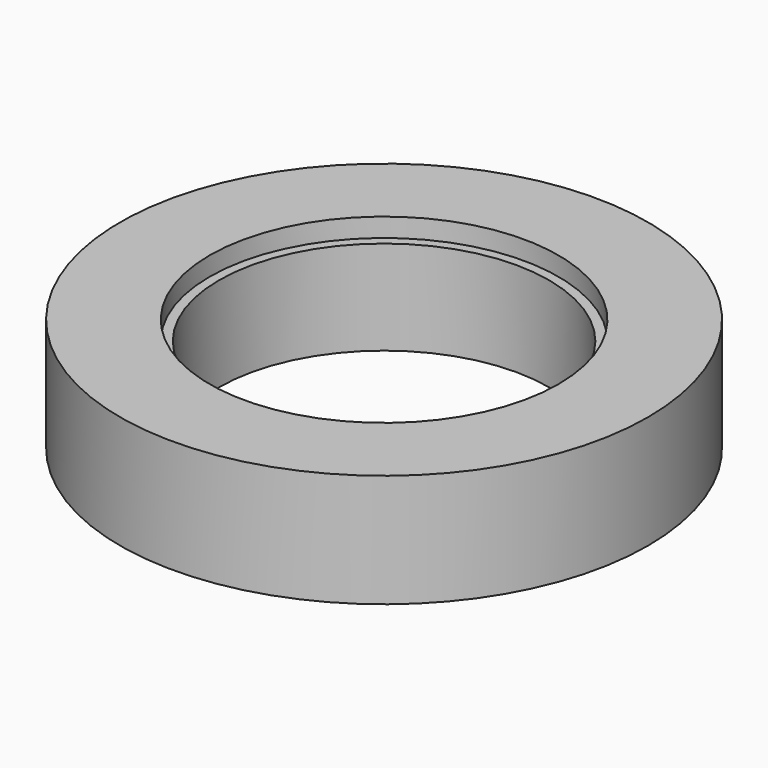
from build123d import *

# Parameters (mm, degrees)
F0_R     = 44.45
F1_DEPTH = 9.525
F2_R     = 29.3751
F3_DEPTH = 3.175
F4_R     = 27.7876
F5_DEPTH = 15.875


with BuildPart() as f1:
    # F0 (on Top) → F1 (new body, symmetric)
    with BuildSketch(Plane.XY):
        Circle(F0_R)
    extrude(amount=F1_DEPTH, both=True)

    # F2 (on face) → F3 (cut)
    with BuildSketch(Plane.XY.offset(9.525)):
        Circle(F2_R)
    extrude(amount=-F3_DEPTH, mode=Mode.SUBTRACT)

    # F4 (on face) → F5 (cut)
    with BuildSketch(Plane.XY.offset(6.35)):
        Circle(F4_R)
    extrude(amount=-F5_DEPTH, mode=Mode.SUBTRACT)


solid = f1.part
